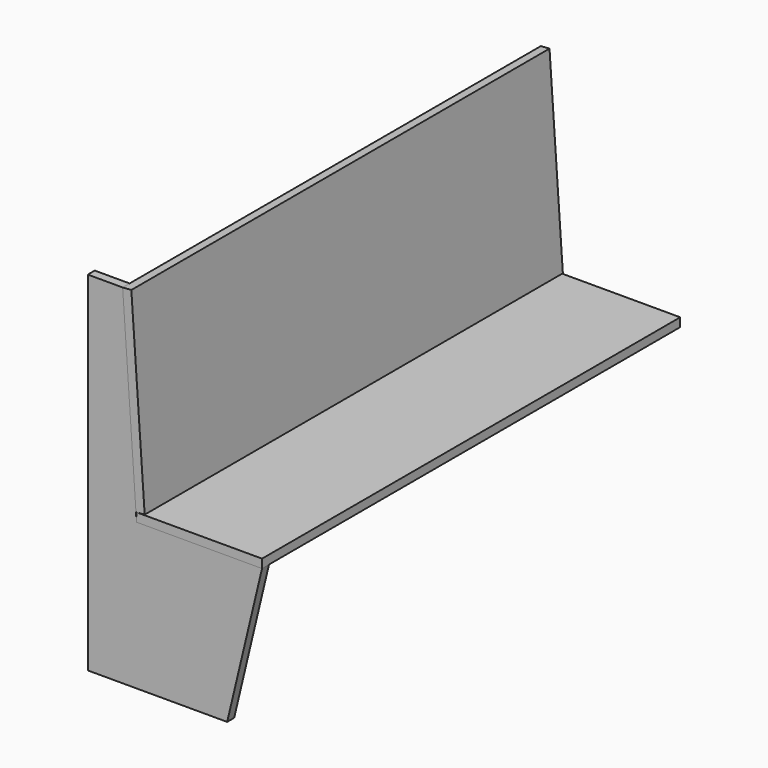
from build123d import *

# Parameters (mm, degrees)
F1_DEPTH = 25
F2_W     = 360
F2_H     = 25
F3_DEPTH = 1500
F5_DEPTH = 1500


with BuildPart() as f1:
    # F0 (on Front) → F1 (new body)
    with BuildSketch(Plane.XZ):
        Polygon((0, 1000), (0, 0), (400, 0), (500, 420), (140, 420), (100, 1000), align=None)
        Polygon((0, 1000), (0, 0), (400, 0), (500, 420), (140, 420), (100, 1000), align=None)
    extrude(amount=F1_DEPTH)


with BuildPart() as f3:
    # F2 (on face) → F3 (new body)
    with BuildSketch(Plane.XZ.offset(25)):
        with Locations((320, 432.5)):
            Rectangle(F2_W, F2_H)
    extrude(amount=-F3_DEPTH)


with BuildPart() as f5:
    # F4 (on face) → F5 (new body)
    with BuildSketch(Plane.XZ.offset(25)):
        Polygon((124.940758, 1001.720052), (100, 1000), (138.284024, 444.881657), (163.224782, 446.601709), align=None)
    extrude(amount=-F5_DEPTH)


solid = Compound([f1.part, f3.part, f5.part])
